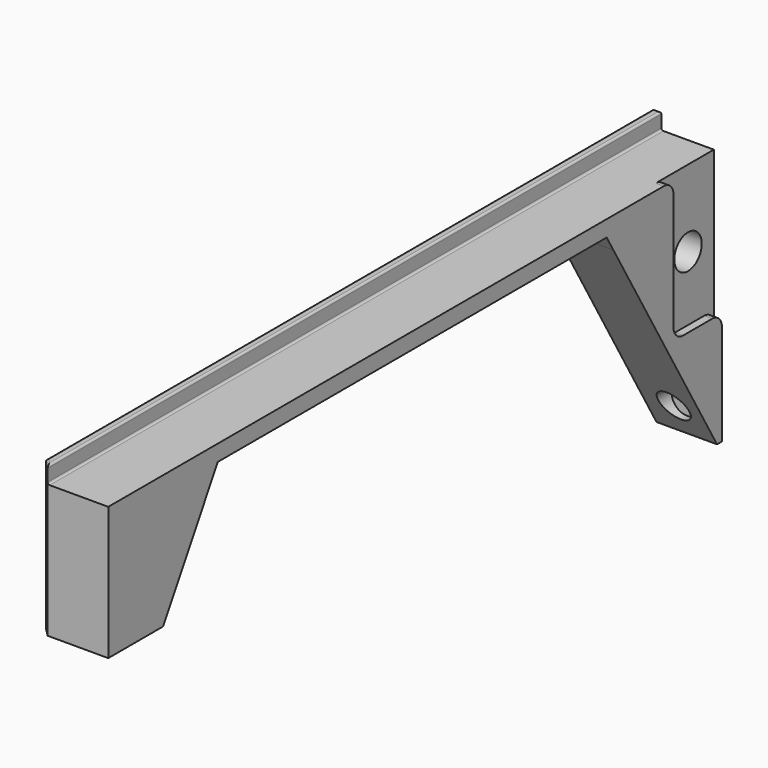
from build123d import *

# Parameters (mm, degrees)
F1_W     = 15
F1_H     = 27.4107800126
F1_R     = 4.25
F1_H_2   = 3.5892199874
F1_H_3   = 4
F2_DEPTH = 17
F3_DEPTH = 2
F4_START = -15
F1_H_4   = 4.0437440276
F4_DEPTH = 2
F5_R     = 3
F0_R     = 1.55
F6_DEPTH = 25
F7_START = 2
F0_R_2   = 3.8628325464
F7_DEPTH = 23
F8_SIZE  = 2
F9_R     = 0.5


with BuildPart() as f2:
    # F1 (on Right) → F2 (new body)
    with BuildSketch(Plane.YZ):
        Polygon((-1.5120996646, 0), (0, 0), (0, 28), (-15, 28), (-15, 55.4107800126), (-33.6045285314, 55.4107800126), align=None)
        with Locations((-7.5, 41.7053900063)):
            Rectangle(F1_W, F1_H)
        with Locations((-8, 44)):
            Circle(F1_R, mode=Mode.SUBTRACT)
        with Locations((-7.5, 57.2053900063)):
            Rectangle(F1_W, F1_H_2)
        Polygon((-35.6833079152, 59), (-33.6045285314, 55.4107800126), (-15, 55.4107800126), (-15, 59), align=None)
        Polygon((-38, 63), (-35.6833079152, 59), (-15, 59), (-15, 63), align=None)
        with Locations((-7.5, 61)):
            Rectangle(F1_W, F1_H_3)
        Polygon((-156.0687124729, 59), (-35.6833079152, 59), (-38, 63), (-190, 63), (-190, 59), align=None)
        Polygon((-169.6997248952, 35.7001498342), (-156.0687124729, 59), (-190, 59), (-190, 35.7001498342), align=None)
        Polygon((-173.0344593525, 30), (-169.6997248952, 35.7001498342), (-190, 35.7001498342), (-190, 30), align=None)
    extrude(amount=-F2_DEPTH)

    # F1 (on Right) → F3 (cut)
    with BuildSketch(Plane.YZ):
        with Locations((-7.5, 41.7053900063)):
            Rectangle(F1_W, F1_H)
        with Locations((-8, 44)):
            Circle(F1_R, mode=Mode.SUBTRACT)
        with Locations((-7.5, 57.2053900063)):
            Rectangle(F1_W, F1_H_2)
        with Locations((-7.5, 61)):
            Rectangle(F1_W, F1_H_3)
    extrude(amount=-F3_DEPTH, mode=Mode.SUBTRACT)

    # F1 (on Right) → F4 (join)
    with BuildSketch(Plane.YZ.offset(F4_START)):
        Polygon((-190, 63), (-38, 63), (-15, 63), (-15, 67.0437440276), (-190, 67.0437440276), align=None)
        with Locations((-7.5, 65.0218720138)):
            Rectangle(F1_W, F1_H_4)
    extrude(amount=-F4_DEPTH)

    # F5
    f5_edges = [f2.edges().sort_by_distance(p)[0] for p in [
        (-1, -15, 28),
        (-1, -15, 63),
        (-1, 0, 28),
    ]]
    fillet(f5_edges, radius=F5_R)

    # F0 (on Front) → F6 (cut)
    with BuildSketch(Plane.XZ):
        with Locations((-7, 8)):
            Circle(F0_R)
    extrude(amount=F6_DEPTH, mode=Mode.SUBTRACT)

    # F0 (on Front) → F7 (cut)
    with BuildSketch(Plane.XZ.offset(F7_START)):
        with Locations((-7, 8)):
            Circle(F0_R_2)
        with Locations((-7, 8)):
            Circle(F0_R, mode=Mode.SUBTRACT)
    extrude(amount=F7_DEPTH, mode=Mode.SUBTRACT)

    # F8
    f8_edges = [f2.edges().sort_by_distance(p)[0] for p in [
        (-17, -18.597704, 29.5),
        (-17, -95.87601, 59),
        (-17, -164.551586, 44.5),
        (-17, -190, 48.521872),
    ]]
    chamfer(f8_edges, length=F8_SIZE)

    # F9
    f9_edges = [f2.edges().sort_by_distance(p)[0] for p in [
        (-15, -95, 63),
        (-15, -95, 67.043744),
        (-17, -94, 67.043744),
        (-16, -189, 67.043744),
        (-16, 0, 67.043744),
        (-17, -12.25, 44),
    ]]
    fillet(f9_edges, radius=F9_R)


solid = f2.part
